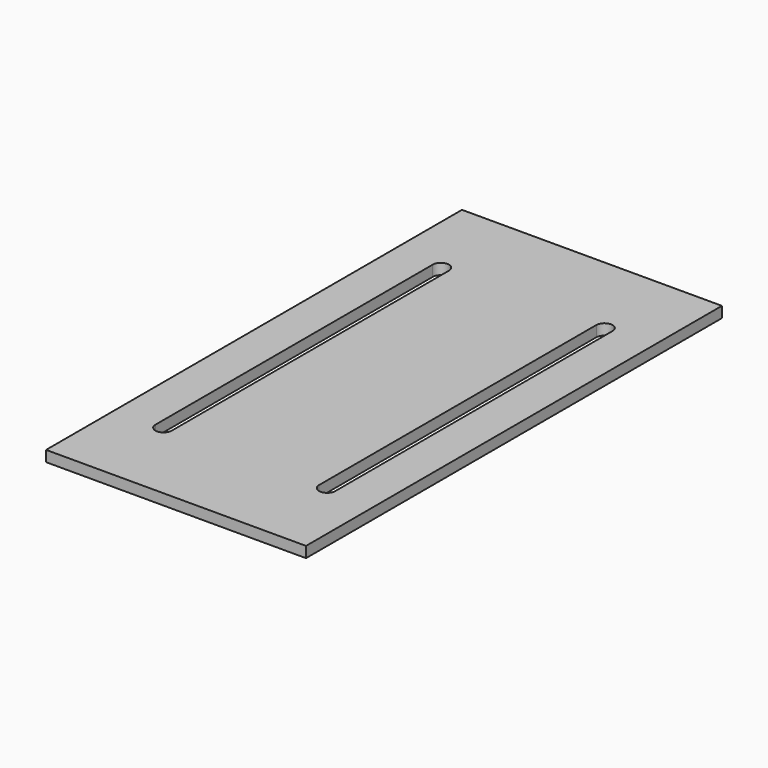
from build123d import *

# Parameters (mm, degrees)
F0_W     = 152.4
F0_H     = 304.8
F1_DEPTH = 6.35
F2_W     = 9.525
F2_H     = 203.2
F3_DEPTH = 25.4


with BuildPart() as f1:
    # F0 (on Top) → F1 (new body)
    with BuildSketch(Plane.XY):
        with Locations((-76.2, 152.4)):
            Rectangle(F0_W, F0_H)
    extrude(amount=F1_DEPTH)

    # F2 (on face) → F3 (cut)
    with BuildSketch(Plane.XY.offset(6.35)):
        with BuildLine():
            ThreePointArc((-119.38, 254), (-124.1425, 258.7625), (-128.905, 254))
            Line((-128.905, 254), (-119.38, 254))
        make_face()
        with Locations((-124.1425, 152.4)):
            Rectangle(F2_W, F2_H)
        with BuildLine():
            Line((-119.38, 50.8), (-128.905, 50.8))
            ThreePointArc((-128.905, 50.8), (-124.1425, 46.0375), (-119.38, 50.8))
        make_face()
        with BuildLine():
            ThreePointArc((-23.495, 254), (-28.2575, 258.7625), (-33.02, 254))
            Line((-33.02, 254), (-23.495, 254))
        make_face()
        with Locations((-28.2575, 152.4)):
            Rectangle(F2_W, F2_H)
        with BuildLine():
            Line((-23.495, 50.8), (-33.02, 50.8))
            ThreePointArc((-33.02, 50.8), (-28.2575, 46.0375), (-23.495, 50.8))
        make_face()
    extrude(amount=-F3_DEPTH, mode=Mode.SUBTRACT)


solid = f1.part
